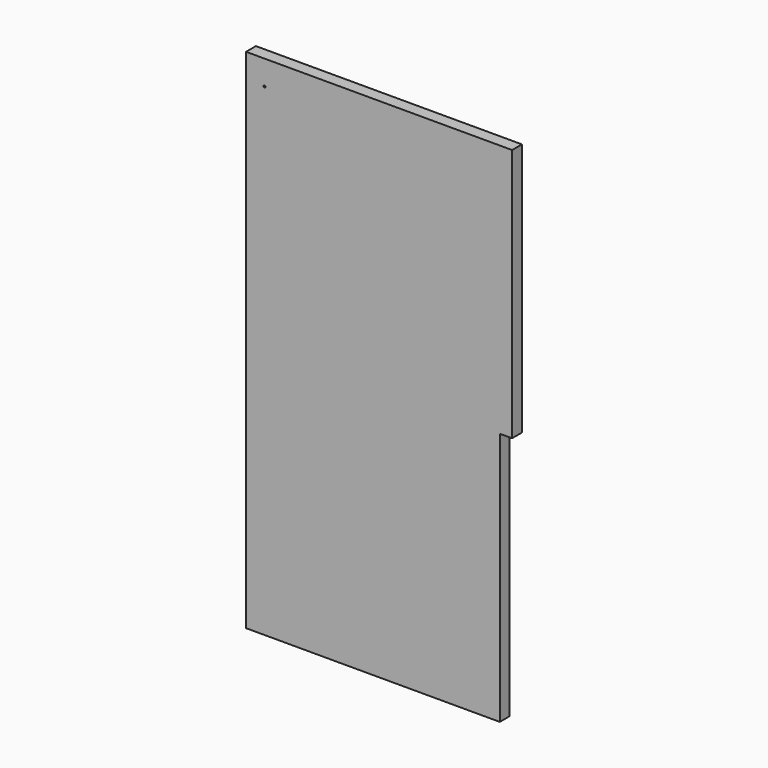
from build123d import *

# Parameters (mm, degrees)
F1_DEPTH = 50
F3_D     = 8
F3_DEPTH = 4
F3_TIP   = 2.4034424761


with BuildPart() as f1:
    # F0 (on Front) → F1 (new body)
    with BuildSketch(Plane.XZ):
        Polygon((75.1604560763, 2005.4856812954), (-1004.8395439237, 2005.4856812954), (-1004.8395439237, -54.5143187046), (25.1604560763, -54.5143187046), (25.1604560763, 975.4856812954), (75.1604560763, 975.4856812954), align=None)
    extrude(amount=F1_DEPTH)

    # F3
    with Locations(Plane.XZ.offset(50)):
        with Locations((-929.8395439237, 1905.4856812954)):
            Hole(F3_D / 2, depth=F3_DEPTH)
            with Locations((0, 0, -(F3_DEPTH + F3_TIP / 2))):  # 118° drill point
                Cone(0, F3_D / 2, F3_TIP, mode=Mode.SUBTRACT)


solid = f1.part
